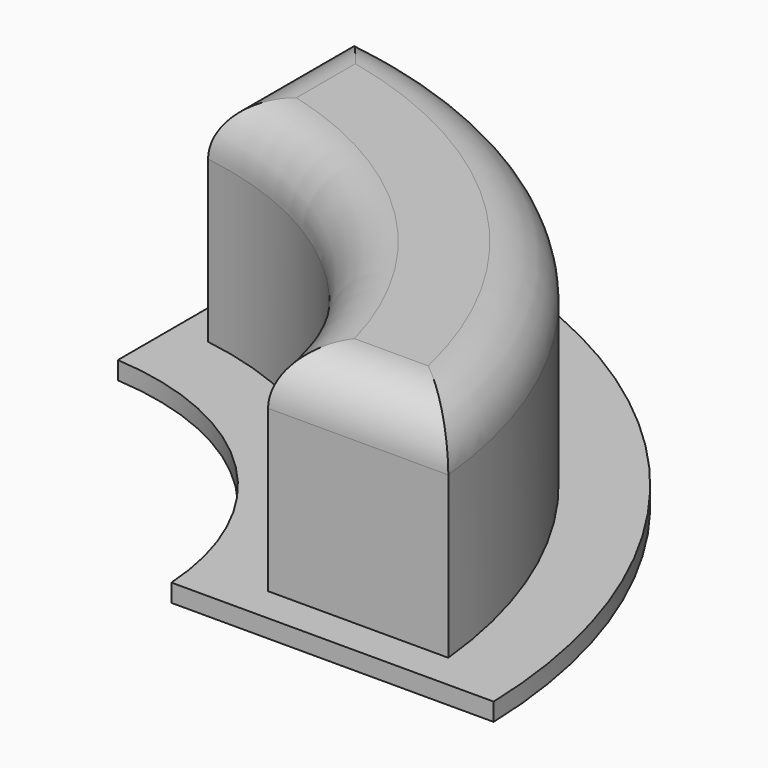
from build123d import *

# Parameters (mm, degrees)
PAD_DEPTH    = 0.5
PAD001_DEPTH = 6
FILLET_R     = 1.5


with BuildPart() as pad:
    # Sketch → Pad (new body)
    with BuildSketch(Plane.XY):
        with BuildLine():
            Line((0.5, 16.992645), (0.5, 7.98436))
            ThreePointArc((7.98436, 0.5), (5.656854, 5.656854), (0.5, 7.98436))
            Line((7.98436, 0.5), (16.992645, 0.5))
            ThreePointArc((16.992645, 0.5), (12.020815, 12.020815), (0.5, 16.992645))
        make_face()
    extrude(amount=PAD_DEPTH)


with BuildPart() as fillet_body:
    # Sketch001 → Pad001 (new body)
    with BuildSketch(Plane.XY.offset(0.5)):
        with BuildLine():
            Line((1.5, 14.924812), (1.5, 9.88686))
            ThreePointArc((9.88686, 1.5), (7.071068, 7.071068), (1.5, 9.88686))
            Line((9.88686, 1.5), (14.924812, 1.5))
            ThreePointArc((14.924812, 1.5), (10.606602, 10.606602), (1.5, 14.924812))
        make_face()
    extrude(amount=PAD001_DEPTH)

    # Fillet
    fillet_edges = [fillet_body.edges().sort_by_distance(p)[0] for p in [
        (7.071068, 7.071068, 6.5),
        (10.606602, 10.606602, 6.5),
        (12.405836, 1.5, 6.5),
        (1.5, 12.405836, 6.5),
    ]]
    fillet(fillet_edges, radius=FILLET_R)


solid = Compound([pad.part, fillet_body.part])
